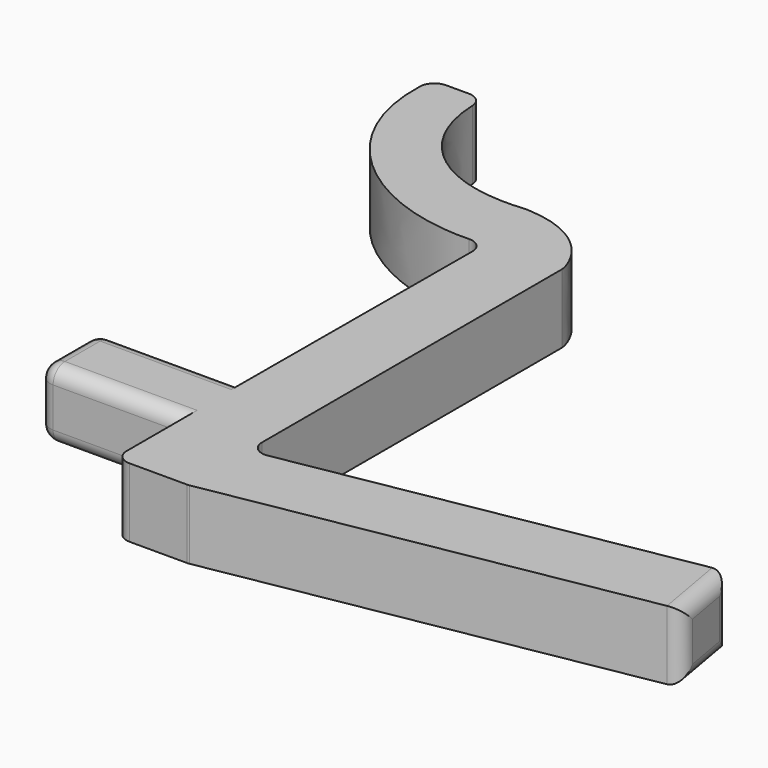
from build123d import *

# Parameters (mm, degrees)
F1_DEPTH = 4.7
F2_R     = 1
F3_R     = 1
F4_R     = 1
F5_R     = 1
F6_R     = 1
F7_R     = 1


with BuildPart() as f1:
    # F0 (on Top) → F1 (new body)
    with BuildSketch(Plane.XY):
        with BuildLine():
            Line((-37.8634879111, 16.5938198038), (-41.3634879111, 16.5938198038))
            add(Edge.make_bspline(
                [(-41.3634879111, 16.5938198038), (-42.3330999579, 8.4070676233), (-34.6984496013, 2.7716392946), (-27.4017257528, 3.6103434673)],
                knots=[0, 0, 0, 0, 19.0657142627, 19.0657142627, 19.0657142627, 19.0657142627], degree=3))
            Line((-27.4017257528, 3.6103434673), (-27.4715846299, -16.8895375016))
            Line((-27.4715846299, -16.8895375016), (-37.4017257528, -16.8895375016))
            Line((-37.4017257528, -16.8895375016), (-37.4017257528, -21.8895375016))
            Line((-37.4017257528, -21.8895375016), (-27.4017257528, -21.8895375016))
            Line((-27.4017257528, -21.8895375016), (-27.4017257528, -27.8969056376))
            Line((-27.4017257528, -27.8969056376), (-22.4017257528, -27.8969056376))
            Line((-22.4017257528, -27.8969056376), (-22.4017257528, -22.8197725782))
            Line((-22.4017257528, -22.8197725782), (-22.4017257528, 3.9038568961))
            add(Edge.make_bspline(
                [(-28.182390092, 8.1103434673), (-23.6468304455, 7.92984111), (-22.4574972274, 4.6390707602), (-22.4017257528, 3.9038568961)],
                knots=[0, 0, 0, 0, 7.1491684465, 7.1491684465, 7.1491684465, 7.1491684465], degree=3))
            add(Edge.make_bspline(
                [(-37.8634879111, 16.5938198038), (-38.2162182752, 11.5384167701), (-34.5331529288, 7.4555239978), (-28.182390092, 8.1103434673)],
                knots=[0, 0, 0, 0, 12.8721803023, 12.8721803023, 12.8721803023, 12.8721803023], degree=3))
        make_face()
        Polygon((6.2742659492, -17.7634215425), (-22.4017257528, -22.8197725782), (-22.4017257528, -27.8969056376), (7.1425068376, -22.6874603076), align=None)
    extrude(amount=F1_DEPTH)

    # F2
    f2_edges = [f1.edges().sort_by_distance(p)[0] for p in [
        (-32.436655, -16.889538, 4.7),
        (-32.436655, -16.889538, 0),
        (-32.401726, -21.889538, 4.7),
        (-32.401726, -21.889538, 0),
    ]]
    fillet(f2_edges, radius=F2_R)

    # F3
    f3_edges = [f1.edges().sort_by_distance(p)[0] for p in [
        (-27.401726, -27.896906, 2.35),
        (-27.401726, 3.610343, 2.35),
    ]]
    fillet(f3_edges, radius=F3_R)

    # F4
    f4_edges = [f1.edges().sort_by_distance(p)[0] for p in [
        (-41.363488, 16.59382, 2.35),
        (-37.863488, 16.59382, 2.35),
    ]]
    fillet(f4_edges, radius=F4_R)

    # F5
    f5_edges = [f1.edges().sort_by_distance(p)[0] for p in [
        (-22.401726, -22.819773, 2.35),
        (6.274266, -17.763422, 2.35),
        (7.142507, -22.68746, 2.35),
        (6.708386, -20.225441, 0),
        (6.708386, -20.225441, 4.7),
    ]]
    fillet(f5_edges, radius=F5_R)

    # F6
    f6_edges = [f1.edges().sort_by_distance(p)[0] for p in [
        (-37.401726, -16.889538, 2.35),
        (-37.401726, -17.182431, 0.292893),
        (-37.401726, -17.182431, 4.407107),
        (-37.401726, -19.389538, 0),
        (-37.401726, -19.389538, 4.7),
        (-37.401726, -21.596644, 0.292893),
        (-37.401726, -21.596644, 4.407107),
        (-37.401726, -21.889538, 2.35),
    ]]
    fillet(f6_edges, radius=F6_R)

    # F7
    f7_edges = [f1.edges().sort_by_distance(p)[0] for p in [
        (-22.401726, -27.896906, 2.35),
    ]]
    fillet(f7_edges, radius=F7_R)


solid = f1.part
